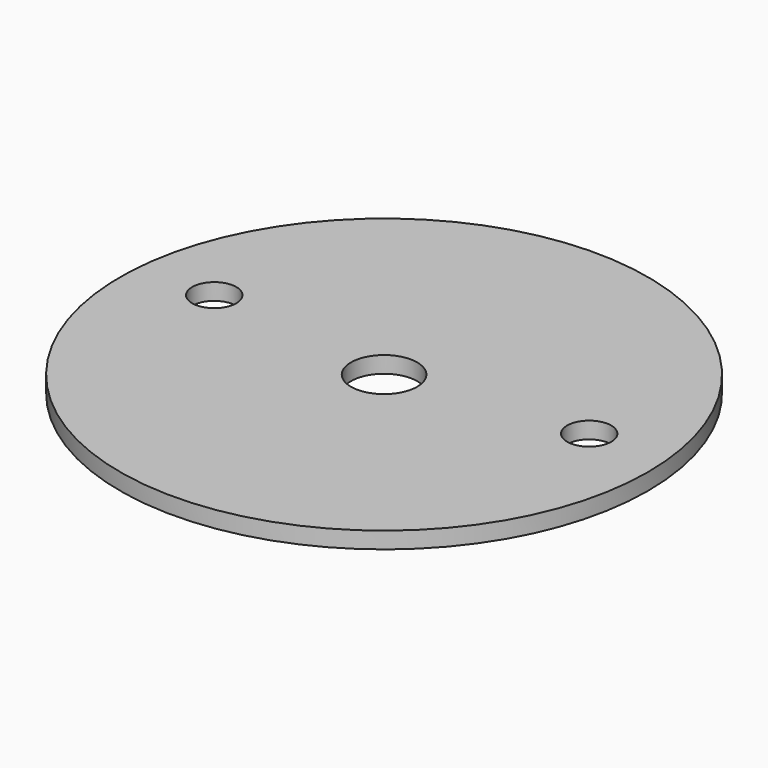
from build123d import *

# Parameters (mm, degrees)
F0_R     = 38
F1_DEPTH = 2.38125
F2_R     = 4.7625
F2_R_2   = 3.175
F3_DEPTH = 25.4


with BuildPart() as f1:
    # F0 (on Top) → F1 (new body)
    with BuildSketch(Plane.XY):
        Circle(F0_R)
    extrude(amount=F1_DEPTH)

    # F2 (on face) → F3 (cut)
    with BuildSketch(Plane.XY.offset(2.38125)):
        Circle(F2_R)
        with Locations((26.9875, 3.175)):
            Circle(F2_R_2)
        with Locations((-26.9875, 3.175)):
            Circle(F2_R_2)
    extrude(amount=-F3_DEPTH, mode=Mode.SUBTRACT)


solid = f1.part
